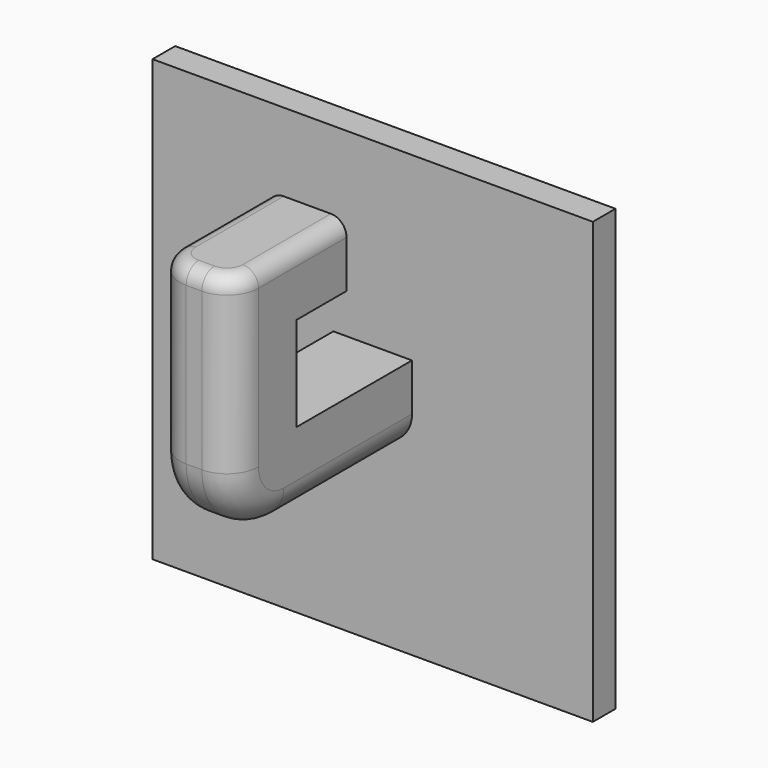
from build123d import *

# Parameters (mm, degrees)
F0_W     = 35.56
F0_H     = 35.56
F0_W_2   = 6.35
F0_H_2   = 6.35
F1_DEPTH = 2.286
F2_DEPTH = 20.32
F3_W     = 6.35
F3_H     = 6.35
F4_DEPTH = 12.7
F5_R     = 5.08
F6_R     = 2.54
F7_W     = 6.35
F7_H     = 5.08
F8_DEPTH = 5.08
F9_R     = 1.27


with BuildPart() as f1:
    # F0 (on Front) → F1 (new body)
    with BuildSketch(Plane.XZ):
        Rectangle(F0_W, F0_H)
        Rectangle(F0_W_2, F0_H_2, mode=Mode.SUBTRACT)
    extrude(amount=F1_DEPTH)

    # F0 (on Front) → F2 (join)
    with BuildSketch(Plane.XZ):
        Rectangle(F0_W_2, F0_H_2)
    extrude(amount=F2_DEPTH)

    # F3 (on face) → F4 (join)
    with BuildSketch(Plane.XY.offset(3.175)):
        with Locations((0, -17.145)):
            Rectangle(F3_W, F3_H)
    extrude(amount=F4_DEPTH)

    # F5
    f5_edges = [f1.edges().sort_by_distance(p)[0] for p in [
        (0, -20.32, -3.175),
    ]]
    fillet(f5_edges, radius=F5_R)

    # F6
    f6_edges = [f1.edges().sort_by_distance(p)[0] for p in [
        (3.175, -20.32, 8.89),
        (-3.175, -20.32, 8.89),
    ]]
    fillet(f6_edges, radius=F6_R)

    # F7 (on face) → F8 (join)
    with BuildSketch(Plane(origin=(0, -13.97, 0), x_dir=(-1, 0, 0), z_dir=(0, 1, 0))):
        with Locations((0, 13.335)):
            Rectangle(F7_W, F7_H)
    extrude(amount=F8_DEPTH)

    # F9
    f9_edges = [f1.edges().sort_by_distance(p)[0] for p in [
        (2.431051, -19.576051, 15.875),
        (0, -20.32, 15.875),
        (-2.431051, -19.576051, 15.875),
    ]]
    fillet(f9_edges, radius=F9_R)


solid = f1.part
